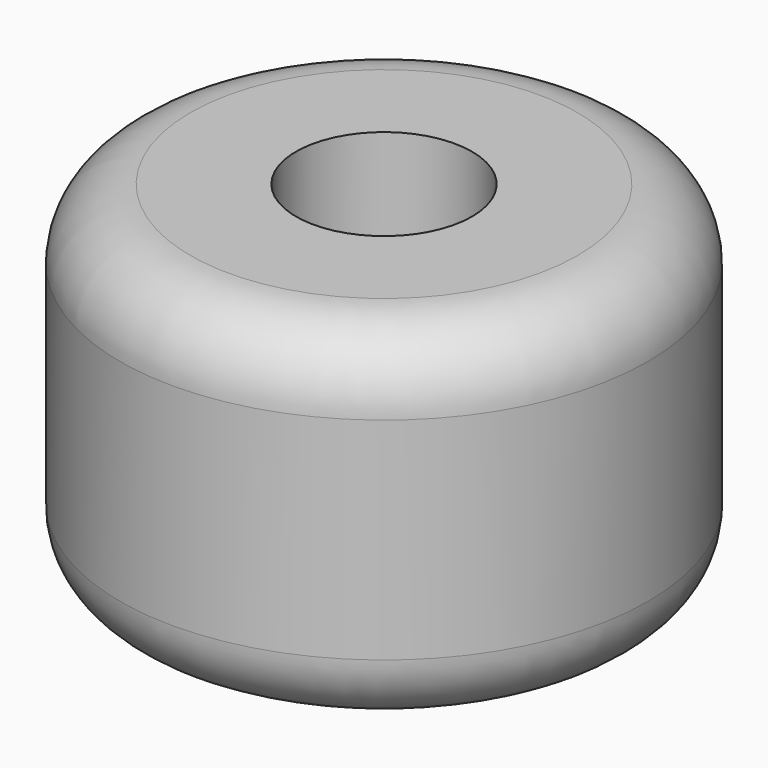
from build123d import *

# Parameters (mm, degrees)
F0_R     = 19.05
F0_R_2   = 6.35
F1_DEPTH = 12.7
F2_R     = 5.08


with BuildPart() as f1:
    # F0 (on Top) → F1 (new body, symmetric)
    with BuildSketch(Plane.XY):
        Circle(F0_R)
        Circle(F0_R_2, mode=Mode.SUBTRACT)
    extrude(amount=F1_DEPTH, both=True)

    # F2
    f2_edges = [f1.edges().sort_by_distance(p)[0] for p in [
        (-19.05, 0, 12.7),
        (-19.05, 0, -12.7),
    ]]
    fillet(f2_edges, radius=F2_R)


solid = f1.part
